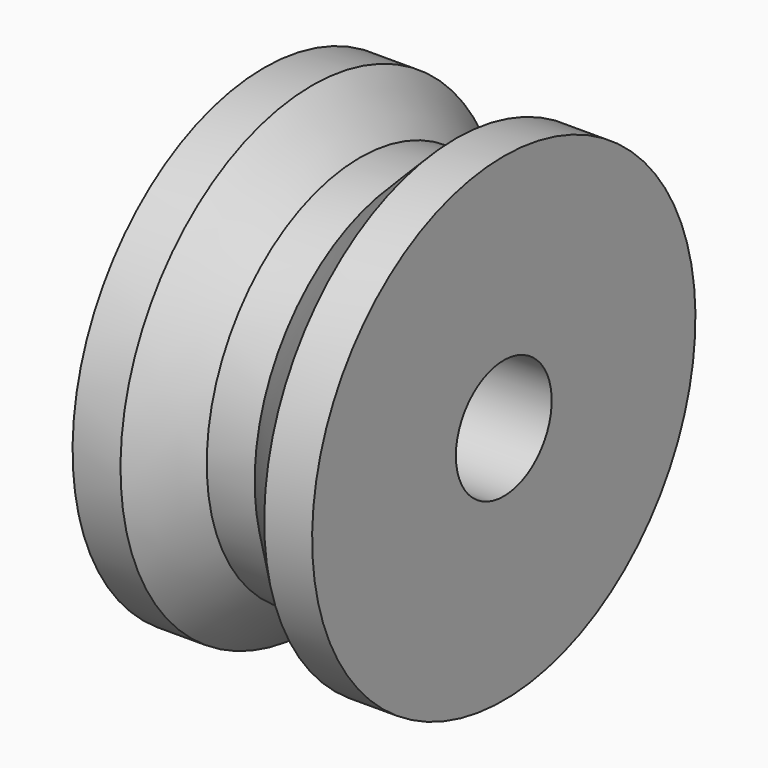
from build123d import *

# Parameters (mm, degrees)
F2_R     = 2.5
F3_DEPTH = 10


with BuildPart() as f1:
    # F0 (on Front) → F1 (revolve)
    with BuildSketch(Plane.XZ):
        Polygon((3, 10), (1, 8), (-1, 8), (-3, 10), (-5, 10), (-5, 0), (5, 0), (5, 10), align=None)
    revolve(axis=Axis((0, 0, 0), (1, 0, 0)))

    # F2 (on face) → F3 (cut, through all)
    with BuildSketch(Plane(origin=(-5, 0, 0), x_dir=(0, -1, 0), z_dir=(-1, 0, 0))):
        Circle(F2_R)
    extrude(amount=-F3_DEPTH, mode=Mode.SUBTRACT)


solid = f1.part
